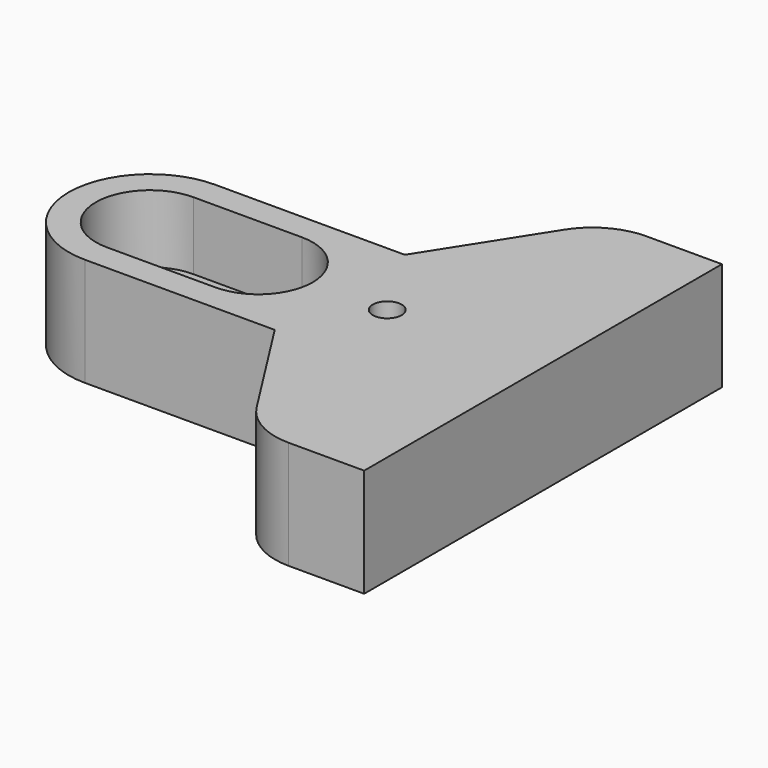
from build123d import *

# Parameters (mm, degrees)
F1_DEPTH = 10.16
F3_DEPTH = 6.35
F5_DEPTH = 10.161
F7_D     = 2.7051
F7_DEPTH = 4.76885
F7_TIP   = 0.8126940303


with BuildPart() as f1:
    # F0 (on Top) → F1 (new body)
    with BuildSketch(Plane.XY):
        with BuildLine():
            Line((25.4, 7.62), (7.62, 7.62))
            ThreePointArc((7.62, 7.62), (0, 0), (7.62, -7.62))
            Line((7.62, -7.62), (25.4, -7.62))
            Line((25.4, -7.62), (32.023525542, -18.016852513))
            ThreePointArc((32.023525542, -18.016852513), (34.3247825403, -20.1722148987), (37.3790612229, -20.955))
            Line((37.3790612229, -20.955), (44.45, -20.955))
            Line((44.45, -20.955), (44.45, 20.955))
            Line((44.45, 20.955), (37.3790612229, 20.955))
            ThreePointArc((37.3790612229, 20.955), (34.3247825403, 20.1722148987), (32.023525542, 18.016852513))
            Line((32.023525542, 18.016852513), (25.4, 7.62))
        make_face()
    extrude(amount=F1_DEPTH)

    # F2 (on face) → F3 (cut)
    with BuildSketch(Plane.XY.offset(10.16)):
        with BuildLine():
            ThreePointArc((7.62, 5.08), (2.54, 0), (7.62, -5.08))
            Line((7.62, -5.08), (17.78, -5.08))
            ThreePointArc((17.78, -5.08), (22.86, 0), (17.78, 5.08))
            Line((17.78, 5.08), (7.62, 5.08))
        make_face()
    extrude(amount=-F3_DEPTH, mode=Mode.SUBTRACT)

    # F4 (on Top) → F5 (cut, through all)
    with BuildSketch(Plane.XY):
        with BuildLine():
            ThreePointArc((7.62, 3.81), (3.81, 0), (7.62, -3.81))
            Line((7.62, -3.81), (17.78, -3.81))
            ThreePointArc((17.78, -3.81), (21.59, 0), (17.78, 3.81))
            Line((17.78, 3.81), (7.62, 3.81))
        make_face()
    extrude(amount=F5_DEPTH, mode=Mode.SUBTRACT)

    # F7
    with Locations(Plane.XY.offset(10.16)):
        with Locations((29.845, 0)):
            Hole(F7_D / 2, depth=F7_DEPTH)
            with Locations((0, 0, -(F7_DEPTH + F7_TIP / 2))):  # 118° drill point
                Cone(0, F7_D / 2, F7_TIP, mode=Mode.SUBTRACT)


solid = f1.part
